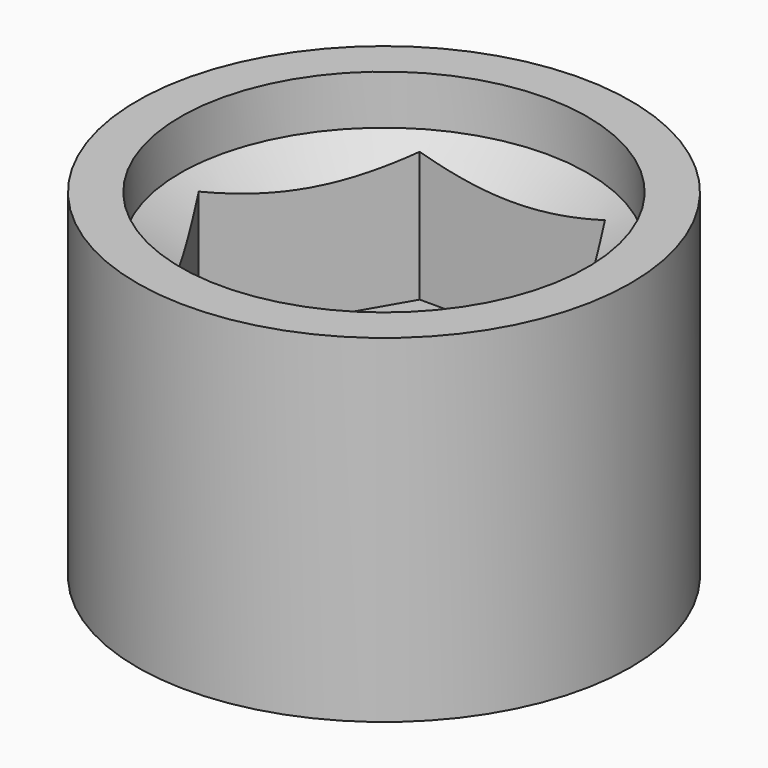
from build123d import *

# Parameters (mm, degrees)
F0_R     = 10
F1_DEPTH = 13.7
F3_DEPTH = 7.7
F5_R     = 1.55
F6_DEPTH = 6
F8_R     = 5
F9_DEPTH = 25


with BuildPart() as f1:
    # F0 (on Top) → F1 (new body)
    with BuildSketch(Plane.XY):
        Circle(F0_R)
    extrude(amount=F1_DEPTH)

    # F2 (on face) → F3 (cut)
    with BuildSketch(Plane.XY.offset(13.7)):
        Polygon((3.752777, 6.5), (-3.752777, 6.5), (-7.505553, 0), (-3.752777, -6.5), (3.752777, -6.5), (7.505553, 0), align=None)
    extrude(amount=-F3_DEPTH, mode=Mode.SUBTRACT)

    # F5 (on face) → F6 (cut)
    with BuildSketch(Plane(origin=(0, 0, 0), x_dir=(1, 0, 0), z_dir=(0, 0, -1))):
        with Locations((0, 8)):
            Circle(F5_R)
        with Locations((0, -8)):
            Circle(F5_R)
        with Locations((8, 0)):
            Circle(F5_R)
        with Locations((-8, 0)):
            Circle(F5_R)
    extrude(amount=-F6_DEPTH, mode=Mode.SUBTRACT)

    # F4 (on Right) → F7 (revolve, cut)
    with BuildSketch(Plane.YZ):
        Polygon((8.25, 13.7), (0, 13.7), (0, 10.7), (6.5, 10.7), (8.25, 11.7), align=None)
    revolve(axis=Axis((0, 0, 12.2), (0, 0, 1)), mode=Mode.SUBTRACT)

    # F8 (on face) → F9 (cut)
    with BuildSketch(Plane(origin=(0, 0, 0), x_dir=(1, 0, 0), z_dir=(0, 0, -1))):
        Circle(F8_R)
    extrude(amount=-F9_DEPTH, mode=Mode.SUBTRACT)


solid = f1.part
